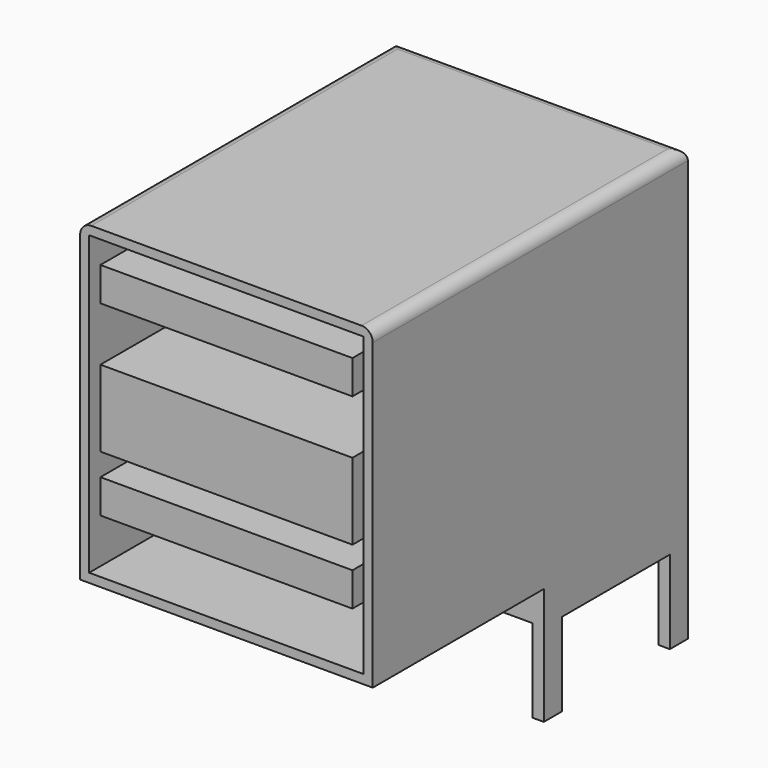
from build123d import *

# Parameters (mm, degrees)
F0_W     = 13
F0_H     = 14
F1_DEPTH = 17.5
F2_W     = 12.2
F2_H     = 13.2
F2_W_2   = 11.2
F2_H_2   = 1.5
F2_H_3   = 3.4
F3_DEPTH = 17
F4_W     = 13
F4_H     = 8
F5_DEPTH = 1.5
F6_W     = 0.5
F6_H     = 1
F7_DEPTH = 3.7
F8_R     = 0.5


with BuildPart() as f1:
    # F0 (on Front) → F1 (new body)
    with BuildSketch(Plane.XZ):
        with Locations((6.5, 7)):
            Rectangle(F0_W, F0_H)
    extrude(amount=F1_DEPTH)

    # F2 (on face) → F3 (cut)
    with BuildSketch(Plane.XZ.offset(17.5)):
        with Locations((6.5, 7)):
            Rectangle(F2_W, F2_H)
        with Locations((6.5, 3.55)):
            Rectangle(F2_W_2, F2_H_2, mode=Mode.SUBTRACT)
        with Locations((6.5, 7)):
            Rectangle(F2_W_2, F2_H_3, mode=Mode.SUBTRACT)
        with Locations((6.5, 11.85)):
            Rectangle(F2_W_2, F2_H_2, mode=Mode.SUBTRACT)
    extrude(amount=-F3_DEPTH, mode=Mode.SUBTRACT)

    # F4 (on face) → F5 (join)
    with BuildSketch(Plane(origin=(0, 0, 0), x_dir=(1, 0, 0), z_dir=(0, 0, -1))):
        with Locations((6.5, 4)):
            Rectangle(F4_W, F4_H)
    extrude(amount=F5_DEPTH)

    # F6 (on face) → F7 (join)
    with BuildSketch(Plane(origin=(0, 0, -1.5), x_dir=(1, 0, 0), z_dir=(0, 0, -1))):
        with Locations((0.25, 7.5)):
            Rectangle(F6_W, F6_H)
        with Locations((0.25, 0.5)):
            Rectangle(F6_W, F6_H)
        with Locations((12.75, 7.5)):
            Rectangle(F6_W, F6_H)
        with Locations((12.75, 0.5)):
            Rectangle(F6_W, F6_H)
    extrude(amount=F7_DEPTH)

    # F8
    f8_edges = [f1.edges().sort_by_distance(p)[0] for p in [
        (13, -8.75, 14),
        (6.5, 0, 14),
        (0, -8.75, 14),
    ]]
    fillet(f8_edges, radius=F8_R)


solid = f1.part
